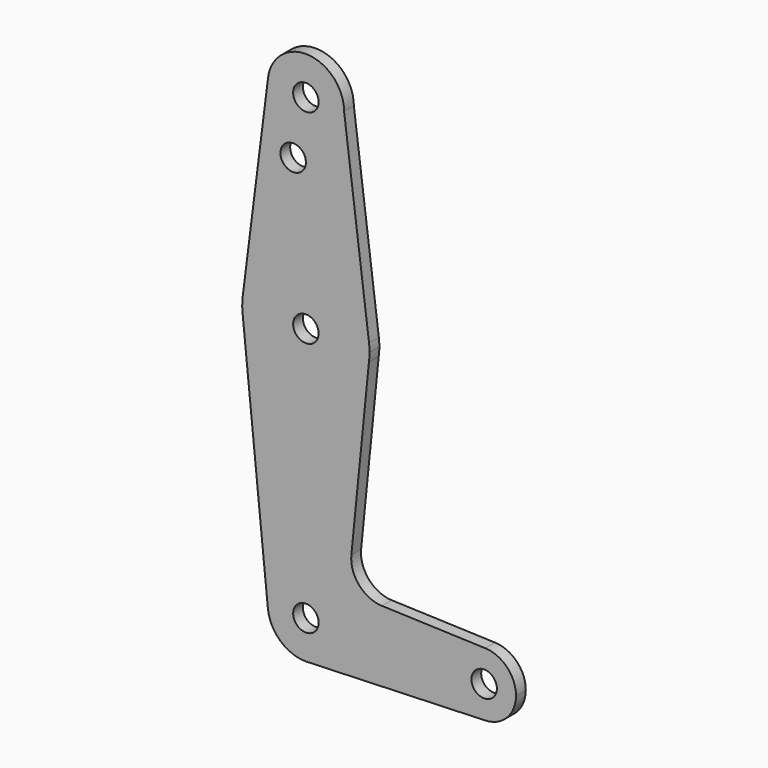
from build123d import *

# Parameters (mm, degrees)
F0_R     = 3.175
F1_DEPTH = 3.048


with BuildPart() as f1:
    # F0 (on Front) → F1 (new body)
    with BuildSketch(Plane.XZ):
        with BuildLine():
            ThreePointArc((0.677344, -9.500886), (6.970557, -6.491299), (9.525, 0))
            ThreePointArc((9.525, 0), (-0.476818, 9.513058), (-9.477261, -0.95244))
            ThreePointArc((-9.477261, -0.95244), (-6.389587, -7.063909), (0, -9.525))
            Line((0, -9.525), (0.677344, -9.500886))
        make_face()
        Circle(F0_R, mode=Mode.SUBTRACT)
        with BuildLine():
            ThreePointArc((-9.477261, -0.95244), (-0.476818, 9.513058), (9.525, 0))
            ThreePointArc((9.525, 0), (6.970557, -6.491299), (0.677344, -9.500886))
            Line((0.677344, -9.500886), (44.732405, -7.932475))
            ThreePointArc((44.732405, -7.932475), (36.5125, 0), (44.732405, 7.932475))
            Line((44.732405, 7.932475), (18.965262, 8.849815))
            ThreePointArc((18.965262, 8.849815), (13.258568, 11.56708), (11.33764, 17.588702))
            Line((11.33764, 17.588702), (15.728054, 61.345019))
            ThreePointArc((15.728054, 61.345019), (-0.229255, 47.626655), (-15.783729, 61.800136))
            Line((-15.783729, 61.800136), (-9.477261, -0.95244))
        make_face()
        with BuildLine():
            ThreePointArc((0, -9.525), (0.338886, -9.51897), (0.677344, -9.500886))
            Line((0.677344, -9.500886), (0, -9.525))
        make_face()
        with BuildLine():
            Line((-15.806341, 62.025146), (-15.783729, 61.800136))
            ThreePointArc((-15.783729, 61.800136), (-0.229255, 47.626655), (15.728054, 61.345019))
            ThreePointArc((15.728054, 61.345019), (15.838221, 62.420007), (15.875, 63.5))
            ThreePointArc((15.875, 63.5), (15.843082, 64.506168), (15.747457, 65.508289))
            ThreePointArc((15.747457, 65.508289), (-0.009592, 79.374997), (-15.749872, 65.489257))
            ThreePointArc((-15.749872, 65.489257), (-15.872891, 63.758747), (-15.806341, 62.025146))
        make_face()
        with Locations((0, 63.5)):
            Circle(F0_R, mode=Mode.SUBTRACT)
        with BuildLine():
            ThreePointArc((-15.806341, 62.025146), (-15.795436, 61.912601), (-15.783729, 61.800136))
            Line((-15.783729, 61.800136), (-15.806341, 62.025146))
        make_face()
        with BuildLine():
            ThreePointArc((44.732405, 7.932475), (36.5125, 0), (44.732405, -7.932475))
            ThreePointArc((44.732405, -7.932475), (50.161633, -5.51191), (52.3875, 0))
            ThreePointArc((52.3875, 0), (50.161633, 5.51191), (44.732405, 7.932475))
        make_face()
        with Locations((44.45, 0)):
            Circle(F0_R, mode=Mode.SUBTRACT)
        with BuildLine():
            Line((-9.502756, 114.950582), (-15.749872, 65.489257))
            ThreePointArc((-15.749872, 65.489257), (-0.009592, 79.374997), (15.747457, 65.508289))
            Line((15.747457, 65.508289), (9.525, 114.3))
            ThreePointArc((9.525, 114.3), (-0.325481, 104.780563), (-9.502756, 114.950582))
        make_face()
        with Locations((-3.175, 100.0252)):
            Circle(F0_R, mode=Mode.SUBTRACT)
        with BuildLine():
            ThreePointArc((9.525, 114.3), (0.325481, 123.819437), (-9.502756, 114.950582))
            ThreePointArc((-9.502756, 114.950582), (-0.325481, 104.780563), (9.525, 114.3))
        make_face()
        with Locations((0, 114.3)):
            Circle(F0_R, mode=Mode.SUBTRACT)
    extrude(amount=F1_DEPTH)


solid = f1.part
